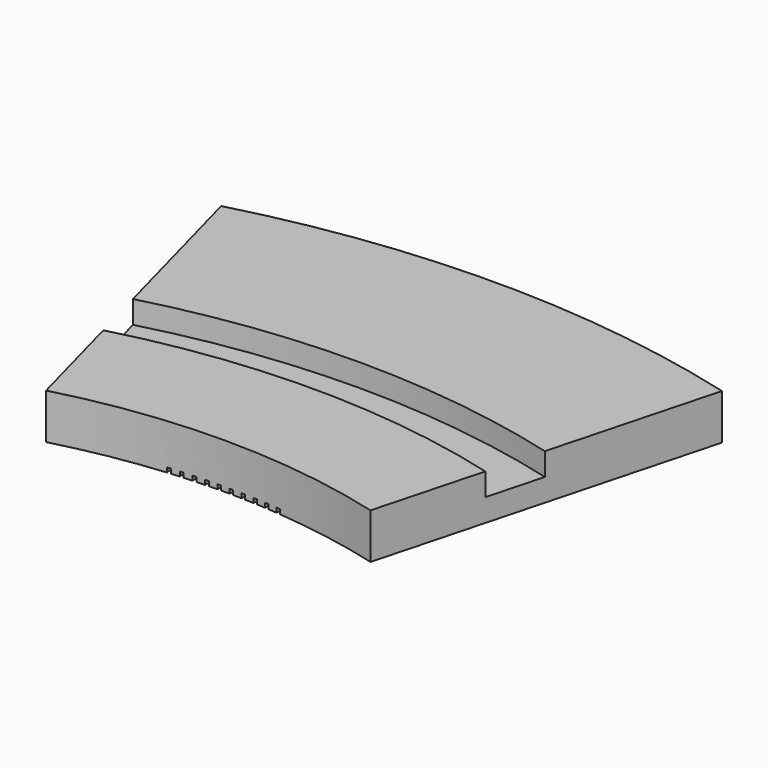
from build123d import *

# Parameters (mm, degrees)
F1_W          = 75
F1_H          = 10
F2_ANGLE_BACK = 15
F2_ANGLE      = 30
F3_DEPTH      = 1
F5_DEPTH      = 5


with BuildPart() as f2:
    # F1 (on Right) → F2 (revolve)
    with BuildSketch(Plane.YZ, mode=Mode.PRIVATE) as f2_sk:
        with Locations((37.5, 5)):
            Rectangle(F1_W, F1_H)
    revolve(f2_sk.sketch.rotate(Axis((0, -138, 25.0724516809), (0, 0, 1)), -F2_ANGLE_BACK), axis=Axis((0, -138, 25.0724516809), (0, 0, 1)), revolution_arc=F2_ANGLE)

    # F0 (on Top) → F3 (cut)
    with BuildSketch(Plane.XY):
        with BuildLine():
            Line((-21.1415446532, 99.0594758487), (-12.4259198532, -0.5605714658))
            ThreePointArc((-12.4259198532, -0.5605714658), (-12.0274924992, -0.5251316633), (-11.6289640948, -0.4908468716))
            Line((-11.6289640948, -0.4908468716), (-20.3445888947, 99.1292004429))
            Line((-20.3445888947, 99.1292004429), (-21.1415446532, 99.0594758487))
        make_face()
        with BuildLine():
            Line((-16.5406704722, 99.4248643684), (-9.7584498559, -0.3454590055))
            ThreePointArc((-9.7584498559, -0.3454590055), (-9.359410193, -0.3177519037), (-8.9602918959, -0.2912015551))
            Line((-8.9602918959, -0.2912015551), (-15.7425125122, 99.4791218187))
            Line((-15.7425125122, 99.4791218187), (-16.5406704722, 99.4248643684))
        make_face()
        with BuildLine():
            Line((-11.9335760215, 99.7009671064), (-7.0873101046, -0.1821127884))
            ThreePointArc((-7.0873101046, -0.1821127884), (-6.6878081953, -0.1621488069), (-6.2882500977, -0.1433428858))
            Line((-6.2882500977, -0.1433428858), (-11.1345160146, 99.739737009))
            Line((-11.1345160146, 99.739737009), (-11.9335760215, 99.7009671064))
        make_face()
        with BuildLine():
            Line((-7.3219938409, 99.8876802321), (-4.4135051058, -0.0705942423))
            ThreePointArc((-4.4135051058, -0.0705942423), (-4.0136911865, -0.0583808887), (-3.6138435458, -0.0473264673))
            Line((-3.6138435458, -0.0473264673), (-6.5223322808, 99.9109480071))
            Line((-6.5223322808, 99.9109480071), (-7.3219938409, 99.8876802321))
        make_face()
        with BuildLine():
            Line((-2.7076581579, 99.98493353), (-1.7380403683, -0.0109453048))
            ThreePointArc((-1.7380403683, -0.0109453048), (-1.3380647927, -0.006487172), (-0.9380779751, -0.0031884074))
            Line((-0.9380779751, -0.0031884074), (-1.9076957647, 99.9926904274))
            Line((-1.9076957647, 99.9926904274), (-2.7076581579, 99.98493353))
        make_face()
        with BuildLine():
            ThreePointArc((0.9380779751, -0.0031884074), (1.3380647927, -0.006487172), (1.7380403683, -0.0109453048))
            Line((1.7380403683, -0.0109453048), (2.7076581579, 99.98493353))
            Line((2.7076581579, 99.98493353), (1.9076957647, 99.9926904274))
            Line((1.9076957647, 99.9926904274), (0.9380779751, -0.0031884074))
        make_face()
        with BuildLine():
            ThreePointArc((3.6138435458, -0.0473264673), (4.0136911865, -0.0583808887), (4.4135051058, -0.0705942423))
            Line((4.4135051058, -0.0705942423), (7.3219938409, 99.8876802321))
            Line((7.3219938409, 99.8876802321), (6.5223322808, 99.9109480071))
            Line((6.5223322808, 99.9109480071), (3.6138435458, -0.0473264673))
        make_face()
        with BuildLine():
            ThreePointArc((6.2882500977, -0.1433428858), (6.6878081953, -0.1621488069), (7.0873101046, -0.1821127884))
            Line((7.0873101046, -0.1821127884), (11.9335760215, 99.7009671064))
            Line((11.9335760215, 99.7009671064), (11.1345160146, 99.739737009))
            Line((11.1345160146, 99.739737009), (6.2882500977, -0.1433428858))
        make_face()
        with BuildLine():
            ThreePointArc((8.9602918959, -0.2912015551), (9.359410193, -0.3177519037), (9.7584498559, -0.3454590055))
            Line((9.7584498559, -0.3454590055), (16.5406704722, 99.4248643684))
            Line((16.5406704722, 99.4248643684), (15.7425125122, 99.4791218187))
            Line((15.7425125122, 99.4791218187), (8.9602918959, -0.2912015551))
        make_face()
        with BuildLine():
            ThreePointArc((12.0274924992, -0.5251316633), (12.2267190167, -0.5427072066), (12.4259198532, -0.5605714658))
            Line((12.4259198532, -0.5605714658), (21.1415446532, 99.0594758487))
            Line((21.1415446532, 99.0594758487), (20.3445888947, 99.1292004429))
            Line((20.3445888947, 99.1292004429), (11.6289640948, -0.4908468716))
            ThreePointArc((11.6289640948, -0.4908468716), (11.828240719, -0.5078448729), (12.0274924992, -0.5251316633))
        make_face()
    extrude(amount=F3_DEPTH, mode=Mode.SUBTRACT)

    # F4 (on face) → F5 (cut)
    with BuildSketch(Plane.XY.offset(10)):
        with BuildLine():
            ThreePointArc((42.0580948292, 18.962946772), (128.9199177973, -39.0762677861), (162.5, -138))
            ThreePointArc((162.5, -138), (-98.9237322139, -266.9199177973), (-42.0580948292, 18.962946772))
            Line((-42.0580948292, 18.962946772), (-45.345096702, 31.2302047658))
            ThreePointArc((-45.345096702, 31.2302047658), (-106.6550023623, -276.995505219), (175.2, -138))
            ThreePointArc((175.2, -138), (138.995505219, -31.3449976377), (45.345096702, 31.2302047658))
            Line((45.345096702, 31.2302047658), (42.0580948292, 18.962946772))
        make_face()
        with BuildLine():
            ThreePointArc((-42.0580948292, 18.962946772), (0, 24.5), (42.0580948292, 18.962946772))
            Line((42.0580948292, 18.962946772), (45.345096702, 31.2302047658))
            ThreePointArc((45.345096702, 31.2302047658), (0, 37.2), (-45.345096702, 31.2302047658))
            Line((-45.345096702, 31.2302047658), (-42.0580948292, 18.962946772))
        make_face()
    extrude(amount=-F5_DEPTH, mode=Mode.SUBTRACT)


solid = f2.part
